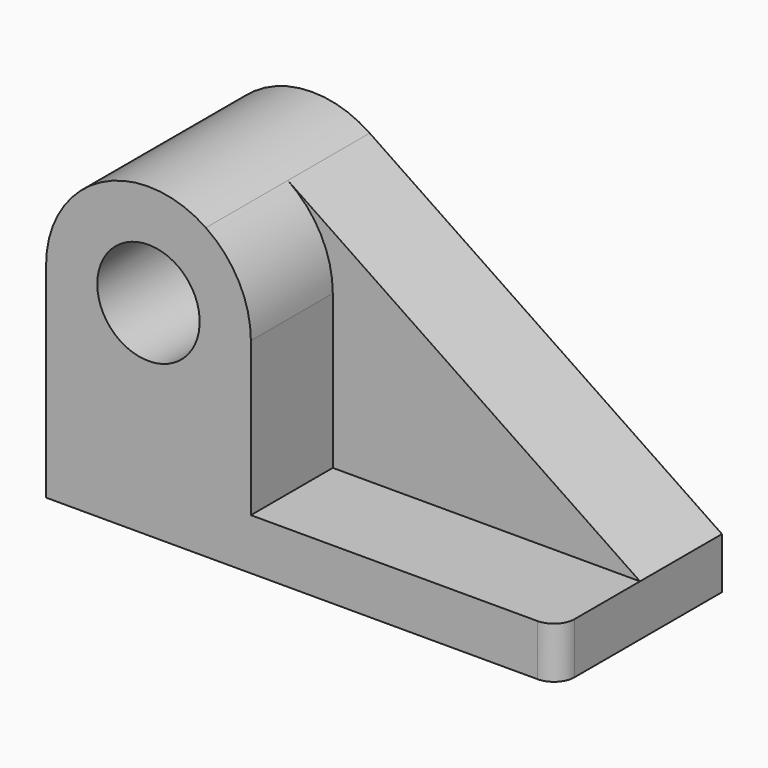
from build123d import *

# Parameters (mm, degrees)
F0_R     = 12.7
F1_DEPTH = 25.4
F3_DEPTH = 25.4
F4_R     = 5.08


with BuildPart() as f1:
    # F0 (on Front) → F1 (new body)
    with BuildSketch(Plane.XZ):
        with BuildLine():
            Line((57.099202013, -20.9237289011), (-30.2629248588, 38.2105994406))
            ThreePointArc((-30.2629248588, 38.2105994406), (-56.4070573186, 39.6128704117), (-69.900797987, 17.1762710989))
            Line((-69.900797987, 17.1762710989), (-69.900797987, -33.6237289011))
            Line((-69.900797987, -33.6237289011), (57.099202013, -33.6237289011))
            Line((57.099202013, -33.6237289011), (57.099202013, -20.9237289011))
        make_face()
        with Locations((-44.500797987, 17.1762710989)):
            Circle(F0_R, mode=Mode.SUBTRACT)
    extrude(amount=F1_DEPTH)

    # F2 (on face) → F3 (join)
    with BuildSketch(Plane.XZ.offset(25.4)):
        with BuildLine():
            Line((-19.100797987, -20.9237289011), (-19.100797987, 17.1762710989))
            Line((-19.100797987, 17.1762710989), (-31.800797987, 17.1762710989))
            ThreePointArc((-31.800797987, 17.1762710989), (-44.500797987, 4.4762710989), (-57.200797987, 17.1762710989))
            Line((-57.200797987, 17.1762710989), (-69.900797987, 17.1762710989))
            Line((-69.900797987, 17.1762710989), (-69.900797987, -20.9237289011))
            Line((-69.900797987, -20.9237289011), (-69.900797987, -33.6237289011))
            Line((-69.900797987, -33.6237289011), (57.099202013, -33.6237289011))
            Line((57.099202013, -33.6237289011), (57.099202013, -20.9237289011))
            Line((57.099202013, -20.9237289011), (-19.100797987, -20.9237289011))
        make_face()
        with BuildLine():
            Line((-31.800797987, 17.1762710989), (-19.100797987, 17.1762710989))
            ThreePointArc((-19.100797987, 17.1762710989), (-22.0641986741, 29.0825304305), (-30.2629248588, 38.2105994406))
            ThreePointArc((-30.2629248588, 38.2105994406), (-56.4070573186, 39.6128704117), (-69.900797987, 17.1762710989))
            Line((-69.900797987, 17.1762710989), (-57.200797987, 17.1762710989))
            ThreePointArc((-57.200797987, 17.1762710989), (-44.500797987, 29.8762710989), (-31.800797987, 17.1762710989))
        make_face()
    extrude(amount=F3_DEPTH)

    # F4
    f4_edges = [f1.edges().sort_by_distance(p)[0] for p in [
        (57.099202, -50.8, -27.273729),
    ]]
    fillet(f4_edges, radius=F4_R)


solid = f1.part
